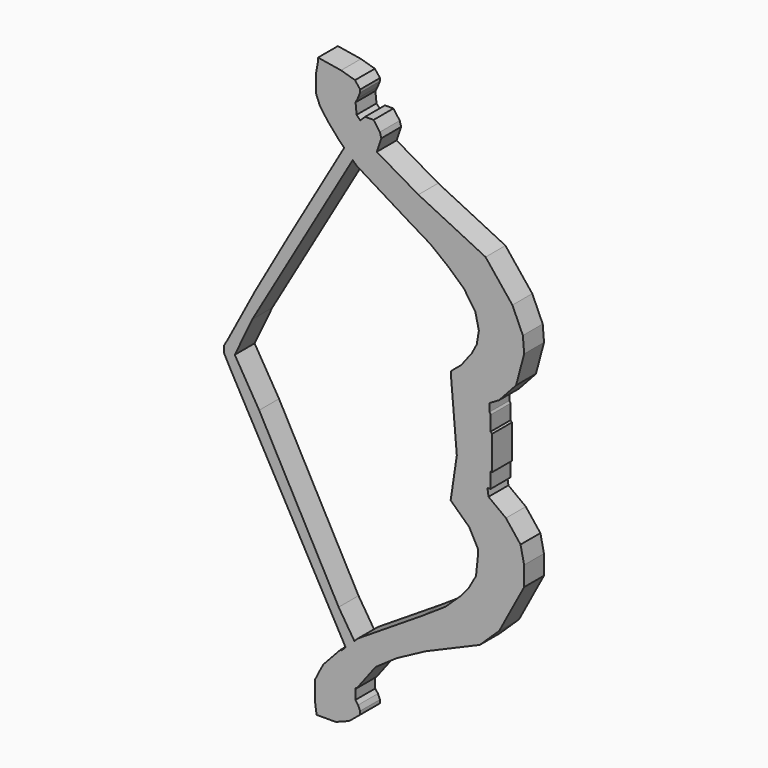
from build123d import *

# Parameters (mm, degrees)
F1_DEPTH = 6.35


with BuildPart() as f1:
    # F0 (on Front) → F1 (new body)
    with BuildSketch(Plane.XZ):
        Polygon((-34.308497, 70.690155), (-35.627097, 72.361246), (-39.185513, 73.408395), (-45.085765, 74.37408), (-45.085765, 73.587187), (-45.627236, 70.428468), (-45.627236, 66.162765), (-44.614065, 63.659623), (-42.647313, 60.918093), (-39.607789, 57.407359), (-38.379731, 56.234379), (-52.432694, 31.958599), (-61.129313, 16.639169), (-68.144596, 3.424435), (-69.156672, 1.654225), (-69.156672, 0), (-66.961855, -4.073157), (-38.026095, -56.195294), (-39.102234, -57.228971), (-39.421171, -57.228971), (-43.712616, -61.858468), (-44.787329, -63.857928), (-45.862038, -66.007353), (-45.862038, -70.906028), (-45.462146, -73.80525), (-40.563464, -73.80525), (-37.146181, -72.502002), (-34.33761, -70.180252), (-34.33761, -69.318958), (-34.824431, -68.120629), (-35.535935, -67.221887), (-35.535935, -64.488217), (-35.198905, -64.488217), (-30.354133, -58.102311), (-29.960589, -57.83011), (-24.916569, -54.341327), (-17.60274, -50.432213), (-3.689651, -44.463456), (1.271262, -39.682169), (7.641939, -27.768502), (7.641939, -22.784742), (6.722947, -18.47255), (2.988683, -13.726575), (-1.459086, -10.381853), (-1.743743, -8.460417), (-0.960936, -8.460417), (-0.960936, -4.546382), (-0.539417, -4.546382), (-0.539417, -3.977067), (-0.539417, 4.104951), (-0.930821, 4.460773), (-0.930821, 8.268063), (-1.179896, 8.801795), (-1.179896, 10.829977), (1.248935, 12.272857), (5.584201, 17.022802), (7.657589, 24.788585), (7.318308, 28.822267), (4.647506, 34.791052), (-2.222107, 43.378066), (-19.41184, 51.835634), (-30.058911, 58.020536), (-28.905725, 61.441984), (-29.26437, 62.742077), (-30.878276, 64.946632), (-33.040687, 64.946632), (-34.285408, 63.728355), (-35.215292, 64.678423), (-35.483975, 67.398816), (-34.913026, 68.507127), (-34.308497, 70.018455), align=None)
        Polygon((-18.50041, -42.745914), (-34.824431, -53.119961), (-35.786382, -54.043956), (-39.810754, -47.711428), (-60.148131, -9.969187), (-66.390261, 0.486024), (-61.881507, 9.981615), (-36.214546, 54.166303), (-35.249628, 53.244662), (-28.627157, 49.176574), (-21.531653, 44.824664), (-16.328281, 41.702639), (-11.685591, 38.048264), (-7.752089, 34.472354), (-4.831761, 30.181259), (-3.937784, 26.247757), (-4.474171, 22.969838), (-5.72574, 20.585898), (-8.467271, 17.009988), (-11.089605, 14.804843), (-11.089605, 13.970464), (-9.57832, -3.704541), (-11.153418, -14.336454), (-6.371869, -18.836735), (-4.217299, -22.886988), (-4.217299, -24.904553), (-4.668344, -29.264662), (-6.472527, -32.472096), (-8.627522, -35.078138), (-12.486468, -38.736619), align=None, mode=Mode.SUBTRACT)
    extrude(amount=F1_DEPTH)


solid = f1.part
